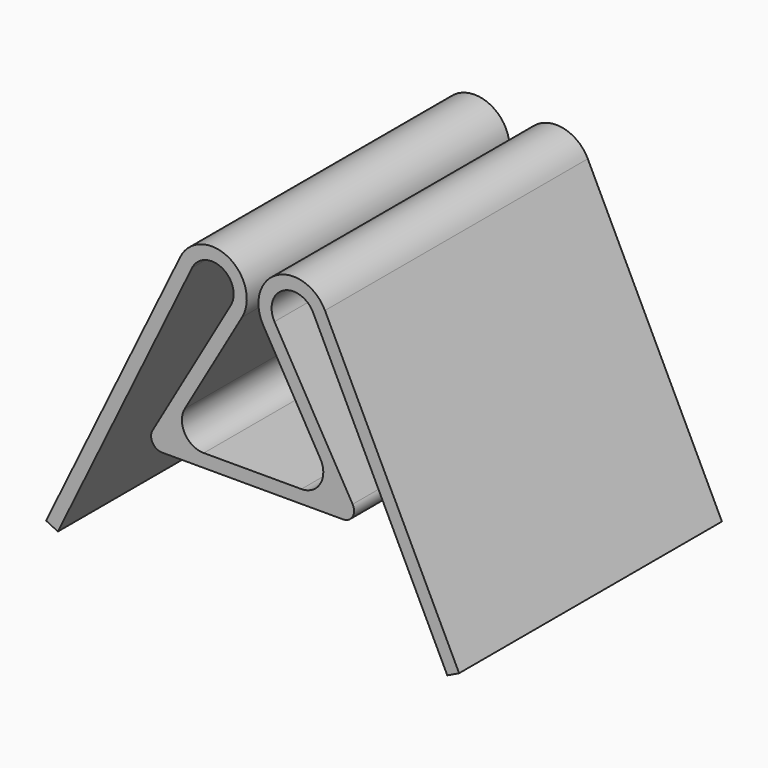
from build123d import *

# Parameters (mm, degrees)
F1_DEPTH = 9.525
F2_R     = 0.635
F3_R     = 1.27


with BuildPart() as f1:
    # F0 (on Front) → F1 (new body, symmetric)
    with BuildSketch(Plane.XZ):
        with BuildLine():
            Line((0, 0.762), (0, 0))
            Line((0, 0), (6.35, 0))
            Line((6.35, 0), (1.27, 8.798818))
            ThreePointArc((1.27, 8.798818), (1.774167, 10.55545), (3.51186, 9.989443))
            Line((3.51186, 9.989443), (11.29061, -5.99866))
            Line((11.29061, -5.99866), (11.975814, -5.665285))
            Line((11.975814, -5.665285), (4.197064, 10.322818))
            ThreePointArc((4.197064, 10.322818), (1.416755, 11.22843), (0.610089, 8.417818))
            Line((0.610089, 8.417818), (5.030177, 0.762))
            Line((5.030177, 0.762), (0, 0.762))
        make_face()
        with BuildLine():
            Line((-6.35, 0), (0, 0))
            Line((0, 0), (0, 0.762))
            Line((0, 0.762), (-5.030177, 0.762))
            Line((-5.030177, 0.762), (-0.610089, 8.417818))
            ThreePointArc((-0.610089, 8.417818), (-1.416755, 11.22843), (-4.197064, 10.322818))
            Line((-4.197064, 10.322818), (-11.975814, -5.665285))
            Line((-11.975814, -5.665285), (-11.29061, -5.99866))
            Line((-11.29061, -5.99866), (-3.51186, 9.989443))
            ThreePointArc((-3.51186, 9.989443), (-1.774167, 10.55545), (-1.27, 8.798818))
            Line((-1.27, 8.798818), (-6.35, 0))
        make_face()
    extrude(amount=F1_DEPTH, both=True)

    # F2
    f2_edges = [f1.edges().sort_by_distance(p)[0] for p in [
        (6.35, 0, 0),
        (-6.35, 0, 0),
    ]]
    fillet(f2_edges, radius=F2_R)

    # F3
    f3_edges = [f1.edges().sort_by_distance(p)[0] for p in [
        (5.030177, 0, 0.762),
        (-5.030177, 0, 0.762),
    ]]
    fillet(f3_edges, radius=F3_R)


solid = f1.part
